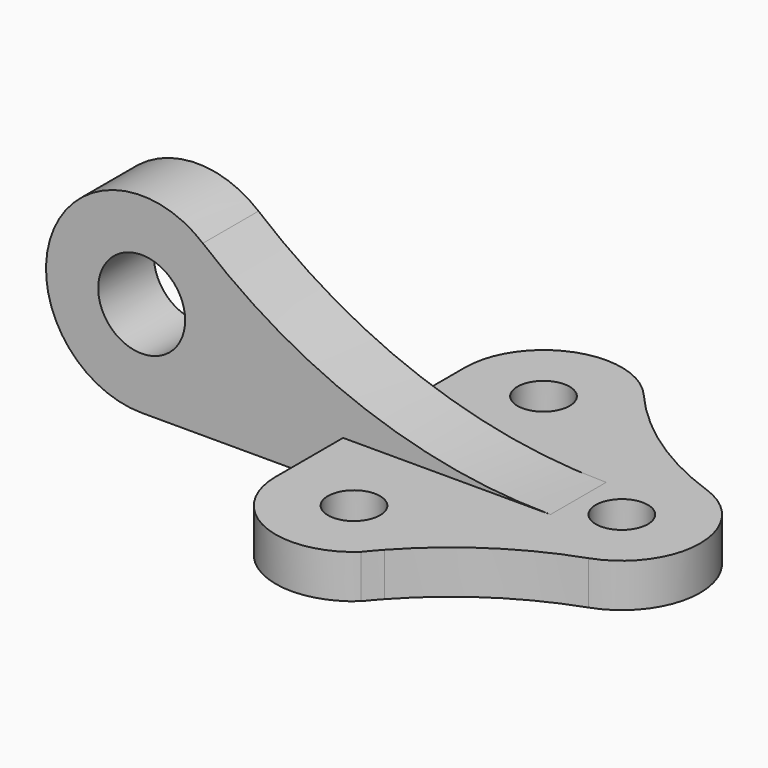
from build123d import *

# Parameters (mm, degrees)
F0_R     = 6
F1_DEPTH = 10
F2_R     = 10
F3_DEPTH = 8


with BuildPart() as f1:
    # F0 (on Top) → F1 (new body)
    with BuildSketch(Plane.XY):
        with BuildLine():
            ThreePointArc((45.67737, 16.983681), (28.225108, 25.813944), (13.649464, 38.856397))
            ThreePointArc((13.649464, 38.856397), (-6.257381, 43.999525), (-18, 27.122168))
            Line((-18, 27.122168), (-18, -27.364329))
            ThreePointArc((-18, -27.364329), (-7.233419, -43.846975), (12.186406, -40.61165))
            ThreePointArc((12.186406, -40.61165), (13.552871, -38.96898), (14.965577, -37.365903))
            ThreePointArc((14.965577, -37.365903), (29.049835, -25.258696), (45.67737, -16.983681))
            ThreePointArc((45.67737, -16.983681), (57.714603, 0), (45.67737, 16.983681))
        make_face()
        with Locations((0, -27.364329)):
            Circle(F0_R, mode=Mode.SUBTRACT)
        with Locations((0, 27.122168)):
            Circle(F0_R, mode=Mode.SUBTRACT)
        with Locations((39.714603, 0)):
            Circle(F0_R, mode=Mode.SUBTRACT)
    extrude(amount=F1_DEPTH)

    # F2 (on Front) → F3 (join, symmetric)
    with BuildSketch(Plane.XZ):
        with BuildLine():
            Line((-64.32263, 0), (0, 0))
            Line((0, 0), (29.698644, 0))
            Line((29.698644, 0), (29.698644, 10))
            ThreePointArc((29.698644, 10), (-12.809858, 17.449895), (-50.251419, 38.911565))
            ThreePointArc((-50.251419, 38.911565), (-85.011449, 29.481496), (-64.32263, 0))
        make_face()
        with Locations((-64.32263, 22)):
            Circle(F2_R, mode=Mode.SUBTRACT)
    extrude(amount=F3_DEPTH, both=True)


solid = f1.part
